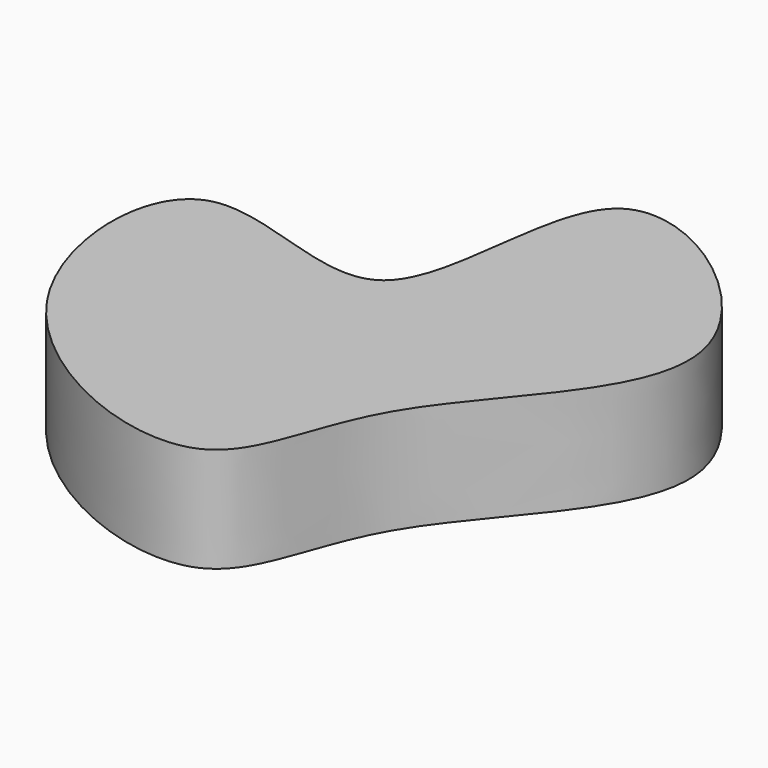
from build123d import *

# Parameters (mm, degrees)
F1_DEPTH = 25


with BuildPart() as f1:
    # F0 (on Top) → F1 (new body)
    with BuildSketch(Plane.XY):
        with BuildLine():
            add(Edge.make_bspline(
                [(-49.6960394084, -27.7222543955), (-39.0802440574, -9.2576176801), (7.5241434045, 24.167812556), (-84.3332288903, 92.5910895561), (-68.3918804473, -12.1858632198), (-142.5669209284, 38.1960073503), (-139.9229075628, -43.1911127094), (-58.5630739369, -77.6850204991), (-58.0419706481, -42.2387916211), (-49.6960394084, -27.7222543955)],
                knots=[0, 0, 0, 0, 0.1557171033, 0.3055298566, 0.4482571602, 0.5804679026, 0.7182167466, 0.8775782507, 1, 1, 1, 1], degree=3))
        make_face()
    extrude(amount=F1_DEPTH)


solid = f1.part
